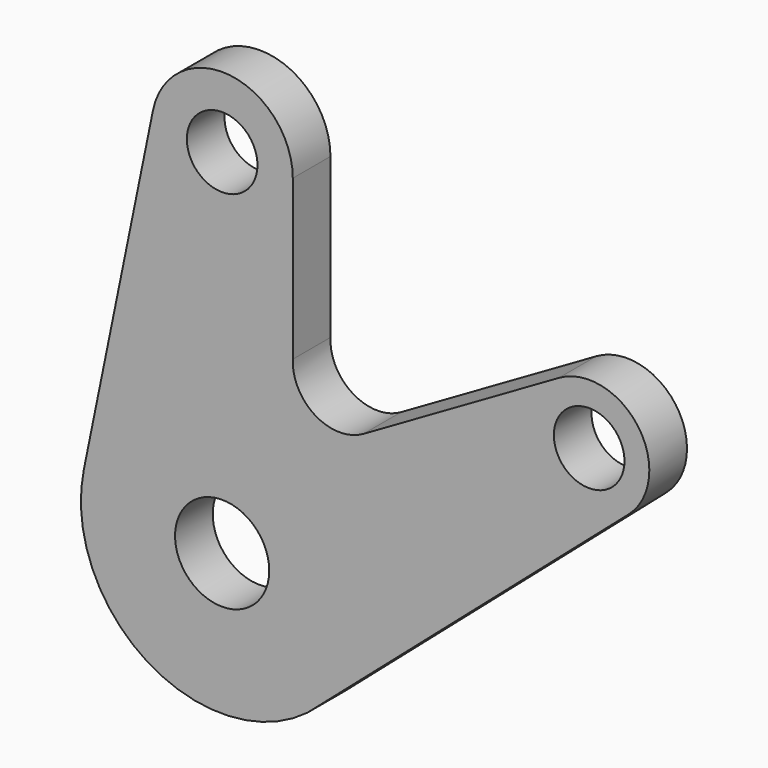
from build123d import *

# Parameters (mm, degrees)
F0_R     = 10
F0_R_2   = 7.5
F1_DEPTH = 5


with BuildPart() as f1:
    # F0 (on Front) → F1 (new body, symmetric)
    with BuildSketch(Plane.XZ):
        with BuildLine():
            Line((-14.696938, 78), (-29.393877, 6))
            ThreePointArc((-29.393877, 6), (-15.990437, -25.383182), (18.103851, -23.921759))
            Line((18.103851, -23.921759), (86.322917, 35.355112))
            ThreePointArc((86.322917, 35.355112), (88.316555, 52.45878), (71.468487, 56.015842))
            Line((71.468487, 56.015842), (29.990812, 32.068694))
            ThreePointArc((29.990812, 32.068694), (19.806337, 32.177854), (15, 41.157529))
            Line((15, 41.157529), (15, 75))
            ThreePointArc((15, 75), (1.507634, 89.924042), (-14.696938, 78))
        make_face()
        Circle(F0_R, mode=Mode.SUBTRACT)
        with Locations((0, 75)):
            Circle(F0_R_2, mode=Mode.SUBTRACT)
        with Locations((77.942286, 45)):
            Circle(F0_R_2, mode=Mode.SUBTRACT)
    extrude(amount=F1_DEPTH, both=True)


solid = f1.part
